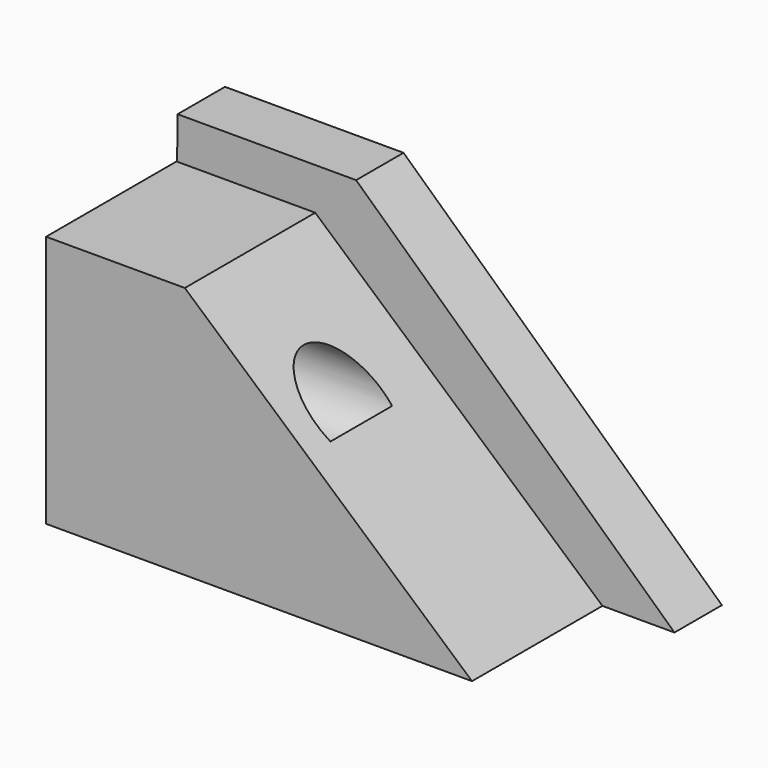
from build123d import *

# Parameters (mm, degrees)
F1_DEPTH = 10.16
F3_DEPTH = 38.1
F4_R     = 6.858397
F5_DEPTH = 25.4


with BuildPart() as f1:
    # F0 (on Front) → F1 (new body)
    with BuildSketch(Plane.XZ):
        Polygon((-13.918791, 33.829112), (-44.521693, 33.829112), (-45.074757, -16.684113), (40.650241, -16.684113), align=None)
    extrude(amount=F1_DEPTH)

    # F2 (on Front) → F3 (join)
    with BuildSketch(Plane.XZ):
        Polygon((-20.924274, 26.639275), (-44.70605, 26.639275), (-44.70605, -16.684113), (28.298469, -16.684113), align=None)
    extrude(amount=F3_DEPTH)

    # F4 (on Right) → F5 (cut)
    with BuildSketch(Plane.YZ):
        with Locations((-26.45492, 10.047339)):
            Circle(F4_R)
    extrude(amount=-F5_DEPTH, mode=Mode.SUBTRACT)


solid = f1.part
